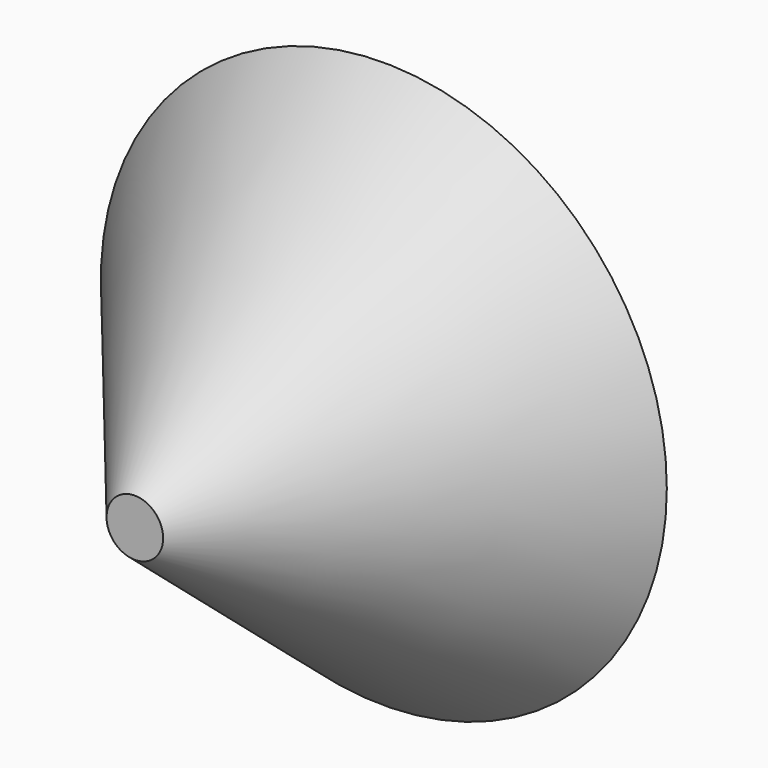
from build123d import *

# Parameters (mm, degrees)
F2_R = 0.5
F0_R = 5


with BuildPart() as f3:
    # F2 (on offset) → F3 section 0
    with BuildSketch(Plane.XZ.offset(5.5)):
        Circle(F2_R)
    # F0 (on Front) → F3 section 1
    with BuildSketch(Plane.XZ):
        Circle(F0_R)
    loft()


solid = f3.part
